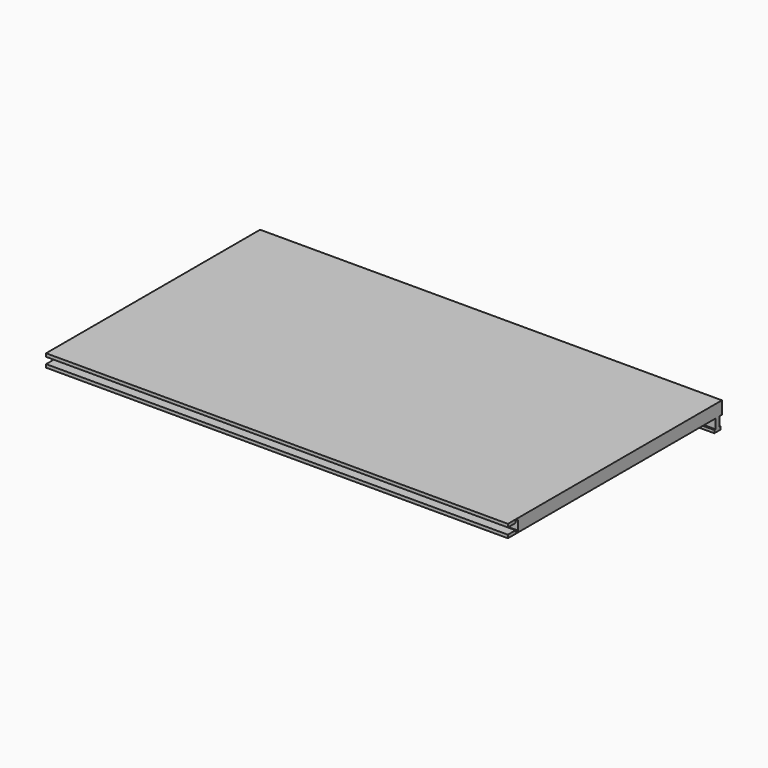
from build123d import *

# Parameters (mm, degrees)
SKETCH185_W     = 145
SKETCH185_H     = 84
PAD088_DEPTH    = 4
SKETCH186_W     = 1.5
SKETCH186_H     = 3
SKETCH186_W_2   = 2.5
SKETCH186_H_2   = 0.9
PAD089_DEPTH    = 145
SKETCH187_W     = 3
SKETCH187_H     = 2
SKETCH187_W_2   = 1
SKETCH187_H_2   = 3
POCKET109_DEPTH = 145
SKETCH188_R     = 3
SKETCH188_W     = 47
SKETCH188_H     = 13
PAD090_DEPTH    = 10
SKETCH189_R     = 1.5
POCKET110_DEPTH = 7


with BuildPart() as part:
    # Sketch185 → Pad088 (new body)
    with BuildSketch(Plane.XY):
        with Locations((72.5, 42)):
            Rectangle(SKETCH185_W, SKETCH185_H)
    extrude(amount=PAD088_DEPTH)

    # Sketch186 → Pad089 (join)
    with BuildSketch(Plane.YZ):
        with Locations((82.25, -1.5)):
            Rectangle(SKETCH186_W, SKETCH186_H)
        with Locations((82.25, -3.45)):
            Rectangle(SKETCH186_W_2, SKETCH186_H_2)
    extrude(amount=PAD089_DEPTH)

    # Sketch187 → Pocket109 (cut)
    with BuildSketch(Plane.YZ):
        with Locations((1.5, 2)):
            Rectangle(SKETCH187_W, SKETCH187_H)
        with Locations((3.5, 2)):
            Rectangle(SKETCH187_W_2, SKETCH187_H_2)
    extrude(amount=POCKET109_DEPTH, mode=Mode.SUBTRACT)

    # Sketch188 → Pad090 (join)
    with BuildSketch(Plane.XY):
        with Locations((98, 64)):
            Circle(SKETCH188_R)
        with Locations((45, 64)):
            Circle(SKETCH188_R)
        with Locations((71.5, 60.5)):
            Rectangle(SKETCH188_W, SKETCH188_H)
    extrude(amount=-PAD090_DEPTH)

    # Sketch189 (on Face1 of Pad090) → Pocket110 (cut)
    with BuildSketch(Plane(origin=(0, 0, -10), x_dir=(1, 0, 0), z_dir=(0, 0, -1))):
        with Locations((45, -64)):
            Circle(SKETCH189_R)
        with Locations((98, -64)):
            Circle(SKETCH189_R)
    extrude(amount=-POCKET110_DEPTH, mode=Mode.SUBTRACT)


solid = part.part
